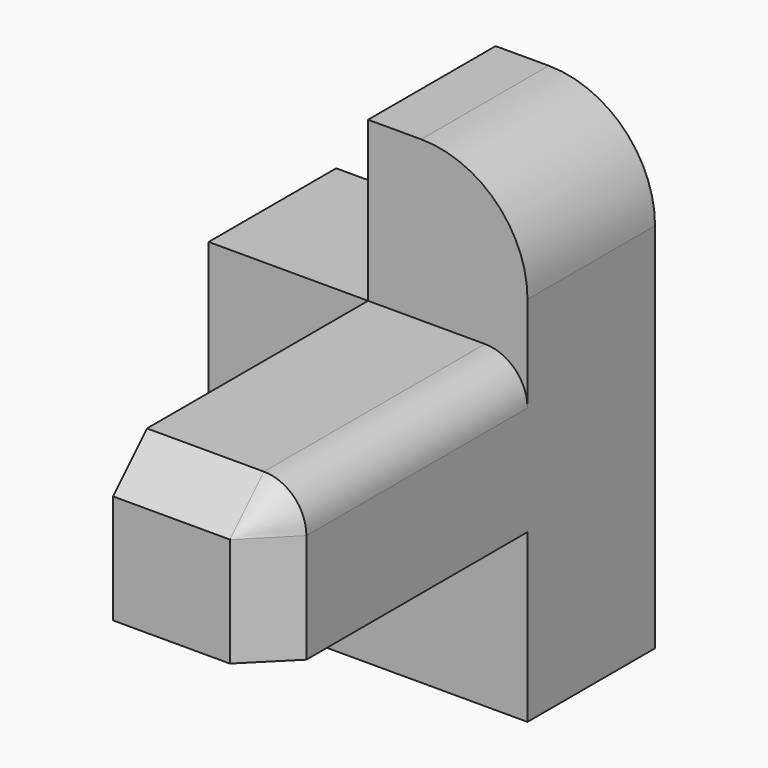
from build123d import *

# Parameters (mm, degrees)
F1_DEPTH = 19.05
F2_W     = 19.05
F2_H     = 18.12971
F3_DEPTH = 38.1
F4_R     = 5.08
F5_SIZE  = 5.08
F6_R     = 12.7


with BuildPart() as f1:
    # F0 (on Front) → F1 (new body)
    with BuildSketch(Plane.XZ):
        Polygon((0, 38.1), (0, 0), (38.1, 0), (38.1, 38.1), (38.1, 57.15), (19.05, 57.15), (19.05, 38.1), align=None)
    extrude(amount=F1_DEPTH)

    # F2 (on face) → F3 (join)
    with BuildSketch(Plane.XZ.offset(19.05)):
        with Locations((28.575, 29.035145)):
            Rectangle(F2_W, F2_H)
    extrude(amount=F3_DEPTH)

    # F4
    f4_edges = [f1.edges().sort_by_distance(p)[0] for p in [
        (38.1, -38.1, 38.1),
    ]]
    fillet(f4_edges, radius=F4_R)

    # F5
    f5_edges = [f1.edges().sort_by_distance(p)[0] for p in [
        (26.035, -57.15, 38.1),
    ]]
    chamfer(f5_edges, length=F5_SIZE)

    # F6
    f6_edges = [f1.edges().sort_by_distance(p)[0] for p in [
        (38.1, -9.525, 57.15),
    ]]
    fillet(f6_edges, radius=F6_R)


solid = f1.part
